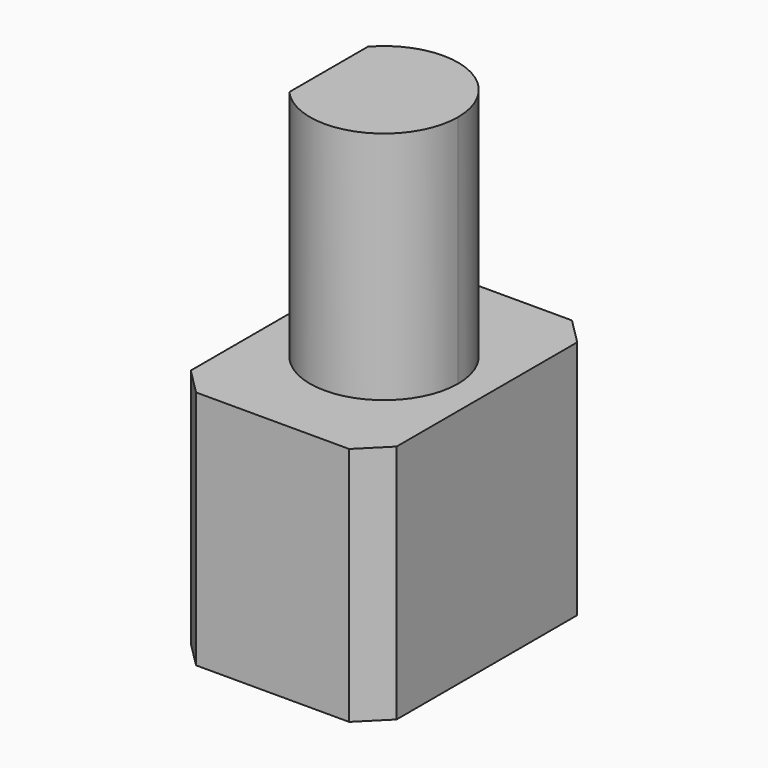
from build123d import *

# Parameters (mm, degrees)
F1_DEPTH = 12.6
F2_DEPTH = 12.6
F4_DEPTH = 12.9


with BuildPart() as f1:
    # F0 (on Top) → F1 (new body)
    with BuildSketch(Plane.XY):
        with BuildLine():
            Line((-2.975, 0), (3.975, 0))
            ThreePointArc((3.975, 0), (1.409787, 3.716601), (-2.975, 2.636285))
            Line((-2.975, 2.636285), (-2.975, 0))
        make_face()
        with BuildLine():
            ThreePointArc((-2.975, -2.636285), (1.409787, -3.716601), (3.975, 0))
            Line((3.975, 0), (-2.975, 0))
            Line((-2.975, 0), (-2.975, -2.636285))
        make_face()
        with BuildLine():
            Line((-2.975, 0), (-2.975, 2.636285))
            ThreePointArc((-2.975, 2.636285), (-3.975, 0), (-2.975, -2.636285))
            Line((-2.975, -2.636285), (-2.975, 0))
        make_face()
    extrude(amount=F1_DEPTH)

    # F0 (on Top) → F2 (cut)
    with BuildSketch(Plane.XY):
        with BuildLine():
            Line((-2.975, 0), (-2.975, 2.636285))
            ThreePointArc((-2.975, 2.636285), (-3.975, 0), (-2.975, -2.636285))
            Line((-2.975, -2.636285), (-2.975, 0))
        make_face()
    extrude(amount=F2_DEPTH, mode=Mode.SUBTRACT)

    # F3 (on face) → F4 (join)
    with BuildSketch(Plane.XY):
        Polygon((5.525, 6.060786), (4.110786, 7.475), (-4.110786, 7.475), (-5.525, 6.060786), (-5.525, -6.060786), (-4.110786, -7.475), (4.110786, -7.475), (5.525, -6.060786), align=None)
    extrude(amount=-F4_DEPTH)


solid = f1.part
